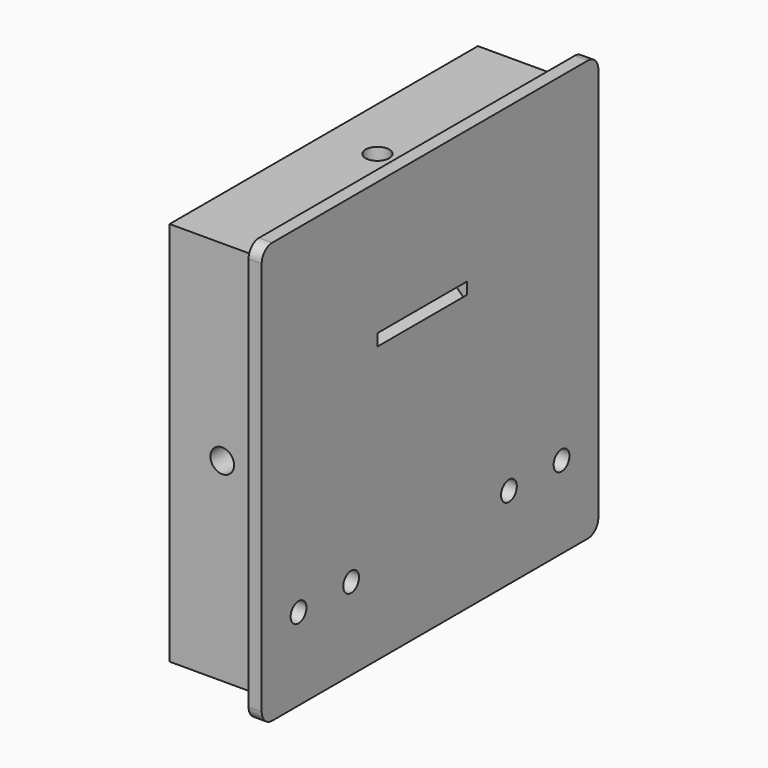
from build123d import *

# Parameters (mm, degrees)
CYLINDER004_R          = 1.8
CYLINDER004_DEPTH      = 40
CYLINDER005_R          = 1.8
CYLINDER005_DEPTH      = 40
CYLINDER006_R          = 1.5
CYLINDER006_DEPTH      = 40
ARRAY002_Y_COUNT       = 2
ARRAY002_Y_PITCH       = 10
ARRAY003_Y_COUNT       = 2
ARRAY003_Y_PITCH       = 40
CYLINDER003_R          = 1.8
CYLINDER003_DEPTH      = 80
BOX010_W               = 4
BOX010_H               = 58.6
BOX010_DEPTH           = 14
BOX013_W               = 10
BOX013_H               = 10
BOX013_DEPTH           = 4
ARRAY004_Z_COUNT       = 2
ARRAY004_Z_PITCH       = 54.5
BOX014_W               = 10
BOX014_H               = 4
BOX014_DEPTH           = 10
ARRAY005_Y_COUNT       = 2
ARRAY005_Y_PITCH       = 54.5
BOX011_W               = 10
BOX011_H               = 17
BOX011_DEPTH           = 2
BOX011_PLACEMENT_ANGLE = 45
BOX009_W               = 14
BOX009_H               = 55.6
BOX009_DEPTH           = 55.6
BOX012_W               = 2
BOX012_H               = 64
BOX012_DEPTH           = 64
FILLET005_R            = 2
BOX008_W               = 14
BOX008_H               = 58.6
BOX008_DEPTH           = 58.6


with BuildPart() as vert_bottom_hole:
    # Cylinder004 → Cylinder004 (new body)
    with BuildSketch(Plane(origin=(5, 30, -12), x_dir=(1, 0, 0), z_dir=(0, 0, 1))):
        Circle(CYLINDER004_R)
    extrude(amount=CYLINDER004_DEPTH)


with BuildPart() as vert_top_hole:
    # Cylinder005 → Cylinder005 (new body)
    with BuildSketch(Plane(origin=(8, 30, 40), x_dir=(1, 0, 0), z_dir=(0, 0, 1))):
        Circle(CYLINDER005_R)
    extrude(amount=CYLINDER005_DEPTH)


with BuildPart() as wall_hole_array_array:
    # Cylinder006 → Cylinder006 (new body)
    with BuildSketch(Plane(origin=(0, 5, 10.5), x_dir=(0, 0, -1), z_dir=(1, 0, 0))):
        Circle(CYLINDER006_R)
    extrude(amount=CYLINDER006_DEPTH)

    # Array002 Y: wall hole array array ×2


with BuildPart() as wall_hole_array_array_1:
    add(wall_hole_array_array.part)
    with Locations(*[(0, i * ARRAY002_Y_PITCH, 0) for i in range(1, ARRAY002_Y_COUNT)]):
        add(wall_hole_array_array.part)

    # Array003 Y: wall hole array array ×2


with BuildPart() as wall_hole_array_array_2:
    add(wall_hole_array_array_1.part)
    with Locations(*[(0, i * ARRAY003_Y_PITCH, 0) for i in range(1, ARRAY003_Y_COUNT)]):
        add(wall_hole_array_array_1.part)


with BuildPart() as wall_hole_array_array_3:
    # Array003 placement: moved
    add(wall_hole_array_array_2.part.moved(Location((-10, 0, 0))))


with BuildPart() as around_wall_hole_fusion:
    # Cylinder003 → Cylinder003 (new body)
    with BuildSketch(Plane(origin=(8, 71, 30), x_dir=(1, 0, 0), z_dir=(0, -1, 0))):
        Circle(CYLINDER003_R)
    extrude(amount=CYLINDER003_DEPTH)

    # Fusion005: union vert bottom hole, vert top hole, wall hole array array
    add(vert_bottom_hole.part)
    add(vert_top_hole.part)
    add(wall_hole_array_array_3.part)


with BuildPart() as bottom_addition:
    # Box010 → Box010 (new body)
    with BuildSketch(Plane(origin=(9, 0.5, 0.5), x_dir=(1, 0, 0), z_dir=(0, 0, 1))):
        with Locations((2, 29.3)):
            Rectangle(BOX010_W, BOX010_H)
    extrude(amount=BOX010_DEPTH)


with BuildPart() as obj1:
    # Box013 → Box013 (new body)
    with BuildSketch(Plane(origin=(2, 25, 0.5), x_dir=(1, 0, 0), z_dir=(0, 0, 1))):
        with Locations((5, 5)):
            Rectangle(BOX013_W, BOX013_H)
    extrude(amount=BOX013_DEPTH)

    # Array004 Z: obj1 ×2


with BuildPart() as obj1_1:
    add(obj1.part)
    with Locations(*[(0, 0, i * ARRAY004_Z_PITCH) for i in range(1, ARRAY004_Z_COUNT)]):
        add(obj1.part)


with BuildPart() as obj2:
    # Box014 → Box014 (new body)
    with BuildSketch(Plane(origin=(3, 0.5, 25), x_dir=(1, 0, 0), z_dir=(0, 0, 1))):
        with Locations((5, 2)):
            Rectangle(BOX014_W, BOX014_H)
    extrude(amount=BOX014_DEPTH)

    # Array005 Y: obj2 ×2


with BuildPart() as obj2_1:
    add(obj2.part)
    with Locations(*[(0, i * ARRAY005_Y_PITCH, 0) for i in range(1, ARRAY005_Y_COUNT)]):
        add(obj2.part)


with BuildPart() as camera_cable_hole:
    # Box011 → Box011 (new body)
    with BuildSketch(Plane.XY):
        with Locations((5, 8.5)):
            Rectangle(BOX011_W, BOX011_H)
    extrude(amount=BOX011_DEPTH)


with BuildPart() as camera_cable_hole_1:
    # Box011 placement: moved
    add(camera_cable_hole.part.moved(Location((8.41288, 20, 46.52))).rotate(Axis((8.41288, 20, 46.52), (0, 1, 0)), BOX011_PLACEMENT_ANGLE))


with BuildPart() as back_wall_hole_fusion:
    # Box009 → Box009 (new body)
    with BuildSketch(Plane(origin=(-2, 2, 2), x_dir=(1, 0, 0), z_dir=(0, 0, 1))):
        with Locations((7, 27.8)):
            Rectangle(BOX009_W, BOX009_H)
    extrude(amount=BOX009_DEPTH)

    # Fusion002: union camera cable hole
    add(camera_cable_hole_1.part)


with BuildPart() as back_back_wall_fillet:
    # Box012 → Box012 (new body)
    with BuildSketch(Plane(origin=(14, -2, -2), x_dir=(1, 0, 0), z_dir=(0, 0, 1))):
        with Locations((1, 32)):
            Rectangle(BOX012_W, BOX012_H)
    extrude(amount=BOX012_DEPTH)

    # Fillet005
    fillet005_edges = [back_back_wall_fillet.edges().sort_by_distance(p)[0] for p in [
        (15, -2, -2),
        (15, -2, 62),
        (15, 62, -2),
        (15, 62, 62),
    ]]
    fillet(fillet005_edges, radius=FILLET005_R)


with BuildPart() as back_wall_whole_cut:
    # Box008 → Box008 (new body)
    with BuildSketch(Plane(origin=(0, 0.5, 0.5), x_dir=(1, 0, 0), z_dir=(0, 0, 1))):
        with Locations((7, 29.3)):
            Rectangle(BOX008_W, BOX008_H)
    extrude(amount=BOX008_DEPTH)

    # Fusion004: union back back wall fillet
    add(back_back_wall_fillet.part)

    # Cut004002: cut back wall hole fusion
    add(back_wall_hole_fusion.part, mode=Mode.SUBTRACT)

    # Fusion003: union bottom addition, obj1, obj2
    add(bottom_addition.part)
    add(obj1_1.part)
    add(obj2_1.part)

    # Cut004003: cut around wall hole fusion
    add(around_wall_hole_fusion.part, mode=Mode.SUBTRACT)


solid = back_wall_whole_cut.part
